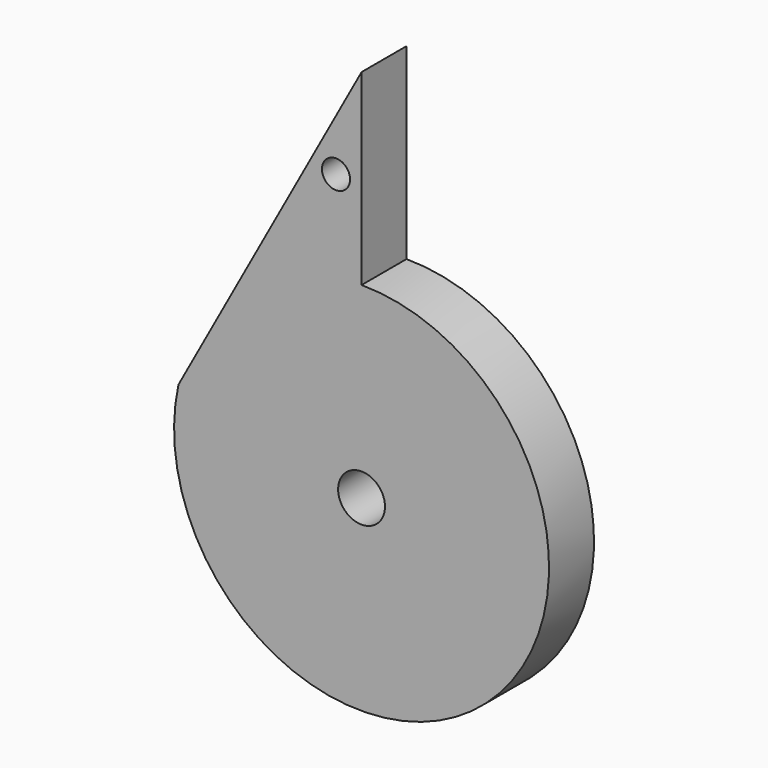
from build123d import *

# Parameters (mm, degrees)
F0_R     = 3.175
F0_R_2   = 1.905
F1_DEPTH = 7.62


with BuildPart() as f1:
    # F0 (on Front) → F1 (new body)
    with BuildSketch(Plane.XZ):
        with BuildLine():
            Line((0, 50.8), (-24.807708, 5.453221))
            ThreePointArc((-24.807708, 5.453221), (15.916158, -19.794846), (0, 25.4))
            Line((0, 25.4), (0, 50.8))
        make_face()
        Circle(F0_R, mode=Mode.SUBTRACT)
        with Locations((-3.458634, 37.484073)):
            Circle(F0_R_2, mode=Mode.SUBTRACT)
    extrude(amount=F1_DEPTH)


solid = f1.part
